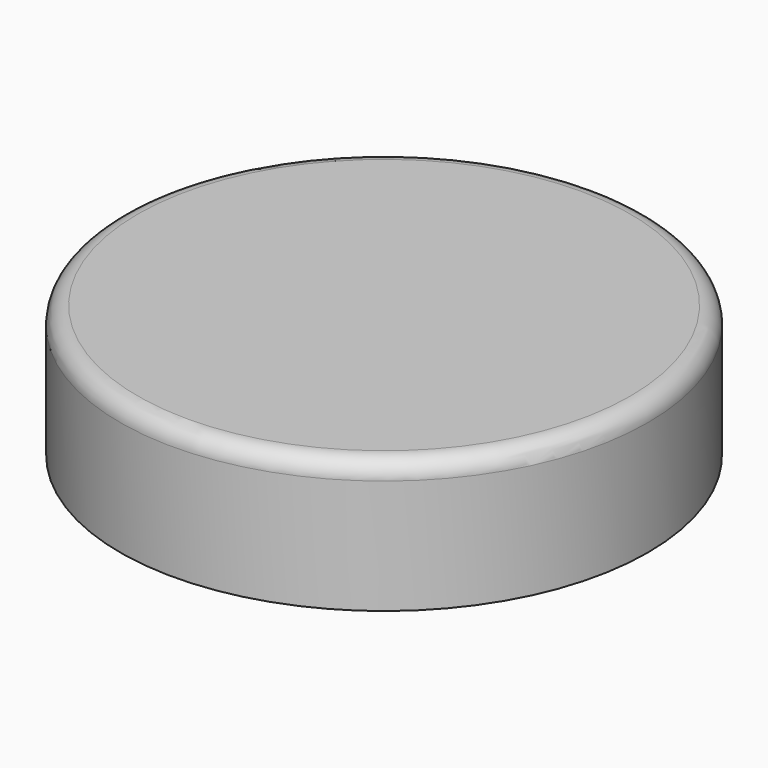
from build123d import *

# Parameters (mm, degrees)
F0_R     = 76.2
F0_R_2   = 12.7
F0_R_3   = 31.75
F1_DEPTH = 38.1
F2_R     = 25.4
F2_R_2   = 12.7
F3_DEPTH = 25.4
F4_R     = 5.08
F5_SIZE  = 5.08
F6_SIZE  = 5.08


with BuildPart() as f1:
    # F0 (on Top) → F1 (new body)
    with BuildSketch(Plane.XY):
        Circle(F0_R)
        with BuildLine():
            add(Edge.make_bspline(
                [(-35.921024, -48.621024), (-22.722797, -48.621024), (-29.321911, -29.571024), (-35.921024, -10.521024), (-42.520138, -29.571024), (-49.119252, -48.621024), (-35.921024, -48.621024)],
                knots=[0, 0, 0, 2.094395, 2.094395, 4.18879, 4.18879, 6.283185, 6.283185, 6.283185], degree=2, weights=[1, 0.5, 1, 0.5, 1, 0.5, 1]))
        make_face(mode=Mode.SUBTRACT)
        with BuildLine():
            add(Edge.make_bspline(
                [(35.921024, -48.621024), (49.119252, -48.621024), (42.520138, -29.571024), (35.921024, -10.521024), (29.321911, -29.571024), (22.722797, -48.621024), (35.921024, -48.621024)],
                knots=[0, 0, 0, 2.094395, 2.094395, 4.18879, 4.18879, 6.283185, 6.283185, 6.283185], degree=2, weights=[1, 0.5, 1, 0.5, 1, 0.5, 1]))
        make_face(mode=Mode.SUBTRACT)
        with Locations((-35.921024, 35.921024)):
            Circle(F0_R_2, mode=Mode.SUBTRACT)
        Circle(F0_R_3, mode=Mode.SUBTRACT)
        with Locations((35.921024, 35.921024)):
            Circle(F0_R_2, mode=Mode.SUBTRACT)
        with Locations((-35.921024, 35.921024)):
            Circle(F0_R_2)
        Circle(F0_R_3)
        with Locations((35.921024, 35.921024)):
            Circle(F0_R_2)
        with BuildLine():
            add(Edge.make_bspline(
                [(35.921024, -48.621024), (49.119252, -48.621024), (42.520138, -29.571024), (35.921024, -10.521024), (29.321911, -29.571024), (22.722797, -48.621024), (35.921024, -48.621024)],
                knots=[0, 0, 0, 2.094395, 2.094395, 4.18879, 4.18879, 6.283185, 6.283185, 6.283185], degree=2, weights=[1, 0.5, 1, 0.5, 1, 0.5, 1]))
        make_face()
        with BuildLine():
            add(Edge.make_bspline(
                [(-35.921024, -48.621024), (-22.722797, -48.621024), (-29.321911, -29.571024), (-35.921024, -10.521024), (-42.520138, -29.571024), (-49.119252, -48.621024), (-35.921024, -48.621024)],
                knots=[0, 0, 0, 2.094395, 2.094395, 4.18879, 4.18879, 6.283185, 6.283185, 6.283185], degree=2, weights=[1, 0.5, 1, 0.5, 1, 0.5, 1]))
        make_face()
    extrude(amount=F1_DEPTH)

    # F2 (on face) → F3 (cut)
    with BuildSketch(Plane(origin=(0, 0, 0), x_dir=(1, 0, 0), z_dir=(0, 0, -1))):
        Circle(F2_R)
        with Locations((35.921024, 35.921024)):
            Circle(F2_R_2)
        with Locations((-35.921024, 35.921024)):
            Circle(F2_R_2)
        with BuildLine():
            add(Edge.make_bspline(
                [(-35.921024, -23.221024), (-49.119252, -23.221024), (-42.520138, -42.271024), (-35.921024, -61.321024), (-29.321911, -42.271024), (-22.722797, -23.221024), (-35.921024, -23.221024)],
                knots=[0, 0, 0, 2.094395, 2.094395, 4.18879, 4.18879, 6.283185, 6.283185, 6.283185], degree=2, weights=[1, 0.5, 1, 0.5, 1, 0.5, 1]))
        make_face()
        with BuildLine():
            add(Edge.make_bspline(
                [(35.921024, -23.221024), (22.722797, -23.221024), (29.321911, -42.271024), (35.921024, -61.321024), (42.520138, -42.271024), (49.119252, -23.221024), (35.921024, -23.221024)],
                knots=[0, 0, 0, 2.094395, 2.094395, 4.18879, 4.18879, 6.283185, 6.283185, 6.283185], degree=2, weights=[1, 0.5, 1, 0.5, 1, 0.5, 1]))
        make_face()
    extrude(amount=-F3_DEPTH, mode=Mode.SUBTRACT)

    # F4
    f4_edges = [f1.edges().sort_by_distance(p)[0] for p in [
        (-76.2, 0, 38.1),
    ]]
    fillet(f4_edges, radius=F4_R)

    # F5
    f5_edges = [f1.edges().sort_by_distance(p)[0] for p in [
        (-25.4, 0, 25.4),
        (23.221024, -35.921024, 25.4),
    ]]
    chamfer(f5_edges, length=F5_SIZE)

    # F6
    f6_edges = [f1.edges().sort_by_distance(p)[0] for p in [
        (-48.621024, -35.921024, 25.4),
    ]]
    chamfer(f6_edges, length=F6_SIZE)


solid = f1.part
